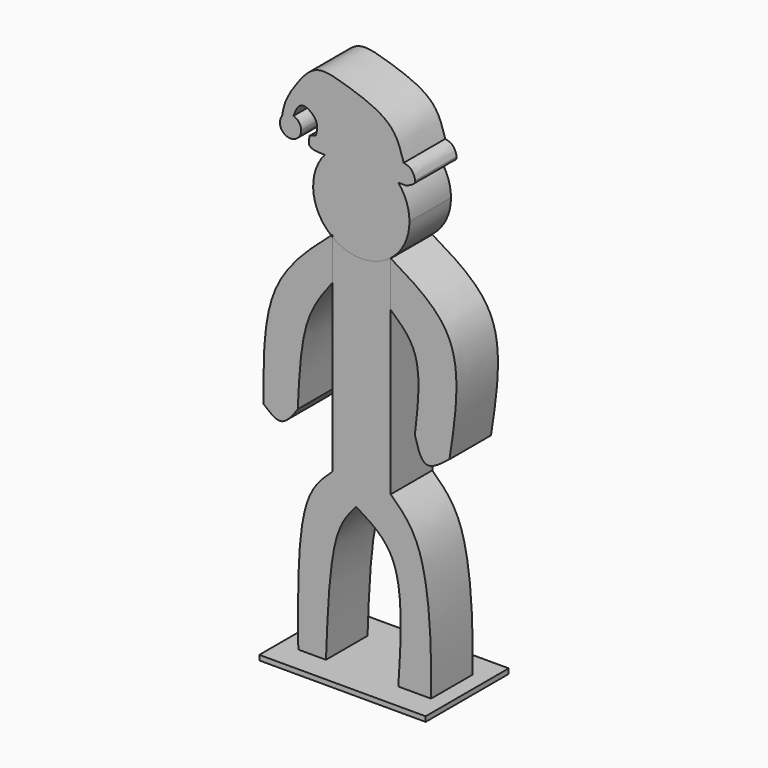
from build123d import *

# Parameters (mm, degrees)
F1_DEPTH      = 6.35
F2_DEPTH      = 6.35
F3_DEPTH      = 6.35
F4_DEPTH      = 9.525
F4_DEPTH_BACK = 3.175


with BuildPart() as f1:
    # F0 (on Front) → F1 (new body)
    with BuildSketch(Plane.XZ):
        with BuildLine():
            add(Edge.make_bspline(
                [(12.5273920316, 62.2654363113), (11.0665005488, 62.3360602112), (8.8442124425, 62.44349232), (7.2714353386, 62.060651673), (6.7577791888, 61.9104570378)],
                knots=[0, 0, 0, 0, 0.5622453459, 0.8552799162, 0.8552799162, 0.8552799162, 0.8552799162], degree=3))
            add(Edge.make_bspline(
                [(12.5273920316, 62.2654363113), (14.4334982096, 62.4849367023), (16.3396043875, 62.7044370934), (17.4972117841, 62.4840260477)],
                knots=[0, 0, 0, 0, 0.5424368479, 0.5424368479, 0.5424368479, 0.5424368479], degree=3))
            add(Edge.make_bspline(
                [(17.4972117841, 62.4840260477), (17.131228304, 63.7674361043), (16.3118475747, 66.6371417254), (10.2544145873, 68.6675374002), (6.3848215947, 69.6937644477), (4.6555253466, 67.1251928844), (3.7512006872, 65.7819702002)],
                knots=[0, 0, 0, 0, 0.2370192711, 0.5302132229, 0.7543411243, 1, 1, 1, 1], degree=3))
            add(Edge.make_bspline(
                [(3.7512006872, 65.7819702002), (3.47371571, 65.2962780712), (2.9185056438, 64.3244735364), (2.7142760844, 63.2225765904), (2.612117143, 62.6713898485)],
                knots=[0, 0, 0, 0, 0.4997837648, 1, 1, 1, 1], degree=3))
            ThreePointArc((2.612117143, 62.6713898485), (3.2375221524, 63.1321859018), (4.0140646781, 63.1533077901))
            add(Edge.make_bspline(
                [(6.7577791888, 61.9170552341), (6.8950059127, 62.4629485379), (7.1834179024, 63.6102627739), (4.8781235577, 65.2914251793), (4.2987985192, 63.8578828964), (4.0140646781, 63.1533077901)],
                knots=[0, 0, 0, 0, 0.315798825, 0.6637203371, 1, 1, 1, 1], degree=3))
            Line((6.7577791888, 61.9170552341), (6.7577791888, 61.9104570378))
        make_face()
        with BuildLine():
            add(Edge.make_bspline(
                [(6.009041597, 61.6786472892), (5.904370804, 61.2466490429), (5.6646535589, 60.2562457923), (7.0733189345, 60.2170169151), (7.8349941244, 60.2060435593)],
                knots=[0, 0, 0, 0, 0.1549010167, 0.354977491, 0.354977491, 0.354977491, 0.354977491], degree=3))
            ThreePointArc((7.8349941244, 60.2060435593), (9.9454909566, 61.7727954048), (12.5273920316, 62.2654363113))
            add(Edge.make_bspline(
                [(12.5273920316, 62.2654363113), (11.0665005488, 62.3360602112), (8.8442124425, 62.44349232), (7.2714353386, 62.060651673), (6.7577791888, 61.9104570378)],
                knots=[0, 0, 0, 0, 0.5622453459, 0.8552799162, 0.8552799162, 0.8552799162, 0.8552799162], degree=3))
            add(Edge.make_bspline(
                [(6.7577791888, 61.9104570378), (6.5041014027, 61.8362808743), (6.2565714999, 61.7574640817), (6.009041597, 61.6786472892)],
                knots=[0.8552799162, 0.8552799162, 0.8552799162, 0.8552799162, 1, 1, 1, 1], degree=3))
        make_face()
        with BuildLine():
            ThreePointArc((4.9574484228, 61.9047028959), (4.6950868279, 62.6871648872), (4.0140646781, 63.1533077901))
            ThreePointArc((4.0140646781, 63.1533077901), (3.2375221524, 63.1321859018), (2.612117143, 62.6713898485))
            ThreePointArc((2.612117143, 62.6713898485), (3.2561617787, 60.6709699735), (4.9574484228, 61.9047028959))
        make_face()
        with BuildLine():
            ThreePointArc((12.5273920316, 62.2654363113), (9.9454909566, 61.7727954048), (7.8349941244, 60.2060435593))
            add(Edge.make_bspline(
                [(7.8349941244, 60.2060435593), (8.8327434634, 60.1916691139), (10.9678914012, 60.2024010817), (14.6956770928, 60.1644330724), (16.8450292831, 60.1407686277)],
                knots=[0.354977491, 0.354977491, 0.354977491, 0.354977491, 0.6170658099, 0.9488177296, 0.9488177296, 0.9488177296, 0.9488177296], degree=3))
            ThreePointArc((16.8450292831, 60.1407686277), (14.913089748, 61.6641541534), (12.5273920316, 62.2654363113))
        make_face()
        with BuildLine():
            add(Edge.make_bspline(
                [(12.5273920316, 62.2654363113), (14.4334982096, 62.4849367023), (16.3396043875, 62.7044370934), (17.4972117841, 62.4840260477)],
                knots=[0, 0, 0, 0, 0.5424368479, 0.5424368479, 0.5424368479, 0.5424368479], degree=3))
            ThreePointArc((12.5273920316, 62.2654363113), (14.913089748, 61.6641541534), (16.8450292831, 60.1407686277))
            add(Edge.make_bspline(
                [(16.8450292831, 60.1407686277), (17.1766286456, 60.1371177069), (17.5098181067, 60.1334083898), (17.8430177321, 60.1296874803)],
                knots=[0.9488177296, 0.9488177296, 0.9488177296, 0.9488177296, 1, 1, 1, 1], degree=3))
            add(Edge.make_bspline(
                [(17.8430177321, 60.1296874803), (18.2654810629, 60.3270261803), (18.8688055835, 60.6088477442), (18.9091028872, 60.946887792), (18.9059697958, 61.0497425555)],
                knots=[0, 0, 0, 0, 0.6202780275, 0.8858258605, 0.8858258605, 0.8858258605, 0.8858258605], degree=3))
            add(Edge.make_bspline(
                [(17.4972117841, 62.4840260477), (17.7559098923, 62.4347693474), (18.5849756129, 62.1679500619), (18.7722409141, 61.5239286331), (18.9059697958, 61.0497425555)],
                knots=[0.5424368479, 0.5424368479, 0.5424368479, 0.5424368479, 0.6636587637, 0.9965413503, 0.9965413503, 0.9965413503, 0.9965413503], degree=3))
        make_face()
    extrude(amount=F1_DEPTH)

    # F0 (on Front) → F2 (join)
    with BuildSketch(Plane.XZ):
        with BuildLine():
            add(Edge.make_bspline(
                [(8.7776299887, 51.9126306062), (8.7281727167, 51.8695028511), (8.6787154448, 51.826375096), (8.6292658664, 51.7832423898)],
                knots=[0, 0, 0, 0, 0.0085170164, 0.0085170164, 0.0085170164, 0.0085170164], degree=3))
            Line((8.7776299887, 51.9126306062), (8.7776299887, 51.6681820829))
            ThreePointArc((8.7776299887, 51.6681820829), (12.3547755841, 50.4896448018), (15.9146455381, 51.7193791815))
            ThreePointArc((15.9146455381, 51.7193791815), (17.5996578641, 53.7837502792), (18.2024572545, 56.3794250398))
            ThreePointArc((18.2024572545, 56.3794250398), (17.8527165632, 58.3788197159), (16.8450292831, 60.1407686277))
            add(Edge.make_bspline(
                [(7.8349941244, 60.2060435593), (8.8327434634, 60.1916691139), (10.9678914012, 60.2024010817), (14.6956770928, 60.1644330724), (16.8450292831, 60.1407686277)],
                knots=[0.354977491, 0.354977491, 0.354977491, 0.354977491, 0.6170658099, 0.9488177296, 0.9488177296, 0.9488177296, 0.9488177296], degree=3))
            ThreePointArc((7.8349941244, 60.2060435593), (6.4486085126, 55.8264565617), (8.6292658664, 51.7832423898))
        make_face()
    extrude(amount=F2_DEPTH)

    # F0 (on Front) → F2, piece 2 (join)
    with BuildSketch(Plane.XZ):
        with BuildLine():
            ThreePointArc((8.7776299887, 51.6681820829), (8.7029894298, 51.7251210279), (8.6292658664, 51.7832423898))
            add(Edge.make_bspline(
                [(8.6292658664, 51.7832423898), (5.9205845588, 49.4205780584), (0.213119288, 44.3678417914), (0.3210256376, 35.5727294417), (0.3781576179, 30.9160786726)],
                knots=[0.0085170164, 0.0085170164, 0.0085170164, 0.0085170164, 0.4750504809, 1, 1, 1, 1], degree=3))
            add(Edge.make_bspline(
                [(0.3781576179, 30.9160786726), (1.0916232819, 30.3060576849), (2.5870810812, 29.0274248234), (3.873497365, 30.8149660675), (4.5461792801, 31.7496920055)],
                knots=[0, 0, 0, 0, 0.4770884638, 1, 1, 1, 1], degree=3))
            add(Edge.make_bspline(
                [(8.7776299887, 46.7311051809), (7.6389169711, 45.2525194805), (4.9945493676, 41.8522960551), (4.7100603031, 35.4108999093), (4.5461792801, 31.7496920055)],
                knots=[0, 0, 0, 0, 0.4313887892, 1, 1, 1, 1], degree=3))
            Line((8.7776299887, 46.7311051809), (8.7776299887, 51.6681820829))
        make_face()
    extrude(amount=F2_DEPTH)


with BuildPart() as f2:
    # F0 (on Front) → F2, piece 3 (new body)
    with BuildSketch(Plane.XZ):
        with BuildLine():
            add(Edge.make_bspline(
                [(15.9146455381, 51.6756046175), (18.8617016243, 49.9162909289), (25.2269753875, 46.1163926795), (23.8391426655, 37.1759878698), (23.0938621765, 32.3748982551)],
                knots=[0, 0, 0, 0, 0.4629896837, 1, 1, 1, 1], degree=3))
            Line((15.9146455381, 51.6756046175), (15.9146455381, 46.1365057656))
            add(Edge.make_bspline(
                [(15.9146455381, 46.1365057656), (17.1060076807, 45.0776061709), (19.9087614247, 42.5764001113), (19.2443616369, 36.8941326773), (18.8617016243, 33.6252957532)],
                knots=[0, 0, 0, 0, 0.4248525231, 1, 1, 1, 1], degree=3))
            add(Edge.make_bspline(
                [(18.8617016243, 33.6252957532), (19.2139959374, 32.3850863204), (19.9268234755, 29.8756633638), (22.0300794151, 31.5354254083), (23.0938621765, 32.3748982551)],
                knots=[0, 0, 0, 0, 0.4942209641, 1, 1, 1, 1], degree=3))
        make_face()
    extrude(amount=F2_DEPTH)


with BuildPart() as f3:
    # F0 (on Front) → F3 (new body)
    with BuildSketch(Plane.XZ):
        with BuildLine():
            ThreePointArc((15.9146455381, 51.7193791815), (12.3547755841, 50.4896448018), (8.7776299887, 51.6681820829))
            Line((8.7776299887, 51.6681820829), (8.7776299887, 46.7311051809))
            Line((8.7776299887, 46.7311051809), (8.7776299887, 37.7898737788))
            Line((8.7776299887, 37.7898737788), (15.9146455381, 37.7898737788))
            Line((15.9146455381, 37.7898737788), (15.9146455381, 46.1365057656))
            Line((15.9146455381, 46.1365057656), (15.9146455381, 51.6756046175))
            Line((15.9146455381, 51.6756046175), (15.9146455381, 51.7193791815))
        make_face()
        with BuildLine():
            Line((15.9146455381, 37.7898737788), (8.7776299887, 37.7898737788))
            Line((8.7776299887, 37.7898737788), (8.7776299887, 26.3995268025))
            add(Edge.make_bspline(
                [(8.7776299887, 26.3995268025), (7.6405202506, 25.3606990583), (4.4367674116, 22.4338510832), (4.5382966864, 12.3708677415), (4.6037901204, 5.879544552)],
                knots=[0, 0, 0, 0, 0.354930544, 1, 1, 1, 1], degree=3))
            Line((4.6037901204, 5.879544552), (7.9931128837, 5.879544552))
            add(Edge.make_bspline(
                [(11.6771539847, 23.5629523376), (10.8576495842, 22.6254961081), (8.5247561277, 19.9568277005), (8.2022974833, 11.4185048822), (7.9931128837, 5.879544552)],
                knots=[0, 0, 0, 0, 0.3512823949, 1, 1, 1, 1], degree=3))
            add(Edge.make_bspline(
                [(11.6771539847, 23.5629523376), (13.4128809525, 22.5159003213), (17.7494270196, 19.8999420584), (17.1777042751, 11.1357933928), (16.8348167765, 5.879544552)],
                knots=[0, 0, 0, 0, 0.4002556276, 1, 1, 1, 1], degree=3))
            Line((16.8348167765, 5.879544552), (20.848903805, 5.879544552))
            add(Edge.make_bspline(
                [(15.9146455381, 26.2756046175), (17.179349206, 25.0870539626), (20.4648655806, 21.8845867621), (20.9331510716, 12.0046778157), (20.848903805, 5.879544552)],
                knots=[0, 0, 0, 0, 0.3713691356, 1, 1, 1, 1], degree=3))
            Line((15.9146455381, 26.2756046175), (15.9146455381, 37.7898737788))
        make_face()
    extrude(amount=F3_DEPTH)

    # F0 (on Front) → F4 (join, two sides)
    with BuildSketch(Plane.XZ) as f4_sk:
        Polygon((7.9931128837, 5.879544552), (4.6037901204, 5.879544552), (2.3757535964, 5.879544552), (2.3757535964, 5.2718357183), (22.7228850126, 5.2718357183), (22.7228850126, 5.879544552), (20.848903805, 5.879544552), (16.8348167765, 5.879544552), (15.2939865366, 5.879544552), align=None)
    extrude(amount=F4_DEPTH)
    extrude(f4_sk.sketch, amount=-F4_DEPTH_BACK)


solid = Compound([f1.part, f2.part, f3.part])
